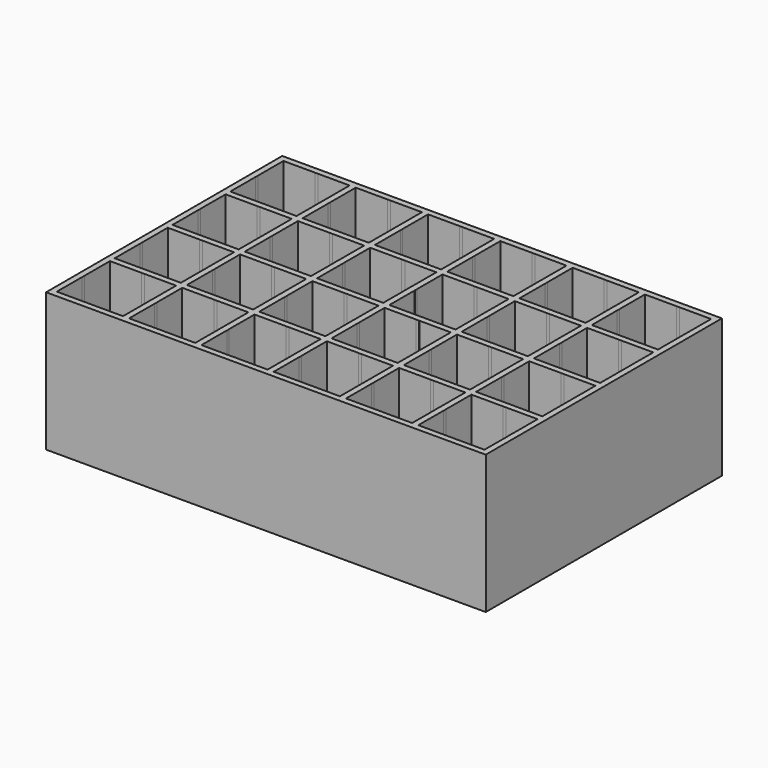
from build123d import *

# Parameters (mm, degrees)
F0_W     = 143.962332
F0_H     = 96
F1_DEPTH = 45
F2_W     = 145.962332
F2_H     = 98
F3_DEPTH = 1
F4_W     = 145.962332
F4_H     = 98
F4_W_2   = 143.962332
F4_H_2   = 96
F5_DEPTH = 45


with BuildPart() as f1:
    # F0 (on Top) → F1 (new body)
    with BuildSketch(Plane.XY):
        with Locations((49.018834, 47.037668)):
            Rectangle(F0_W, F0_H)
        Polygon((-21.98031, 11.537668), (-21.962332, 22.037668), (-11.462332, 22.01969), (-11.462332, 22), (-10.462332, 22), (-10.462332, 22.017978), (0.037668, 22), (0.019755, 11.537668), (6.4e-05, 11.537668), (6.4e-05, 10.537668), (0.018043, 10.537668), (0, 0), (-10.462332, 0.017914), (-10.462332, 0.039316), (-11.462332, 0.039316), (-11.462332, 0.019626), (-22, 0.037668), (-21.982022, 10.537668), (-21.960619, 10.537668), (-21.960619, 11.537668), align=None, mode=Mode.SUBTRACT)
        Polygon((13.537668, 22.017978), (24.037668, 22), (24.019755, 11.537668), (24.000064, 11.537668), (24.000064, 10.537668), (24.018043, 10.537668), (24, 0), (13.537668, 0.017914), (13.537668, 0.039316), (12.537668, 0.039316), (12.537668, 0.019626), (2, 0.037668), (2.017978, 10.537668), (2.039381, 10.537668), (2.039381, 11.537668), (2.01969, 11.537668), (2.037668, 22.037668), (12.537668, 22.01969), (12.537668, 22), (13.537668, 22), align=None, mode=Mode.SUBTRACT)
        Polygon((37.537668, 22.017978), (48.037668, 22), (48.019755, 11.537668), (48.000064, 11.537668), (48.000064, 10.537668), (48.018043, 10.537668), (48, 0), (37.537668, 0.017914), (37.537668, 0.039316), (36.537668, 0.039316), (36.537668, 0.019626), (26, 0.037668), (26.017978, 10.537668), (26.039381, 10.537668), (26.039381, 11.537668), (26.01969, 11.537668), (26.037668, 22.037668), (36.537668, 22.01969), (36.537668, 22), (37.537668, 22), align=None, mode=Mode.SUBTRACT)
        Polygon((-10.462332, 46.017978), (0.037668, 46), (0.019755, 35.537668), (6.4e-05, 35.537668), (6.4e-05, 34.537668), (0.018043, 34.537668), (0, 24), (-10.462332, 24.017914), (-10.462332, 24.039316), (-11.462332, 24.039316), (-11.462332, 24.019626), (-22, 24.037668), (-21.982022, 34.537668), (-21.960619, 34.537668), (-21.960619, 35.537668), (-21.98031, 35.537668), (-21.962332, 46.037668), (-11.462332, 46.01969), (-11.462332, 46), (-10.462332, 46), align=None, mode=Mode.SUBTRACT)
        Polygon((13.537668, 46.017978), (24.037668, 46), (24.019755, 35.537668), (24.000064, 35.537668), (24.000064, 34.537668), (24.018043, 34.537668), (24, 24), (13.537668, 24.017914), (13.537668, 24.039316), (12.537668, 24.039316), (12.537668, 24.019626), (2, 24.037668), (2.017978, 34.537668), (2.039381, 34.537668), (2.039381, 35.537668), (2.01969, 35.537668), (2.037668, 46.037668), (12.537668, 46.01969), (12.537668, 46), (13.537668, 46), align=None, mode=Mode.SUBTRACT)
        Polygon((37.537668, 46.017978), (48.037668, 46), (48.019755, 35.537668), (48.000064, 35.537668), (48.000064, 34.537668), (48.018043, 34.537668), (48, 24), (37.537668, 24.017914), (37.537668, 24.039316), (36.537668, 24.039316), (36.537668, 24.019626), (26, 24.037668), (26.017978, 34.537668), (26.039381, 34.537668), (26.039381, 35.537668), (26.01969, 35.537668), (26.037668, 46.037668), (36.537668, 46.01969), (36.537668, 46), (37.537668, 46), align=None, mode=Mode.SUBTRACT)
        Polygon((61.537668, 22.017978), (72.037668, 22), (72.019755, 11.537668), (72.000064, 11.537668), (72.000064, 10.537668), (72.018043, 10.537668), (72, 0), (61.537668, 0.017914), (61.537668, 0.039316), (60.537668, 0.039316), (60.537668, 0.019626), (50, 0.037668), (50.017978, 10.537668), (50.039381, 10.537668), (50.039381, 11.537668), (50.01969, 11.537668), (50.037668, 22.037668), (60.537668, 22.01969), (60.537668, 22), (61.537668, 22), align=None, mode=Mode.SUBTRACT)
        Polygon((85.537668, 22.017978), (96.037668, 22), (96.019755, 11.537668), (96.000064, 11.537668), (96.000064, 10.537668), (96.018043, 10.537668), (96, 0), (85.537668, 0.017914), (85.537668, 0.039316), (84.537668, 0.039316), (84.537668, 0.019626), (74, 0.037668), (74.017978, 10.537668), (74.039381, 10.537668), (74.039381, 11.537668), (74.01969, 11.537668), (74.037668, 22.037668), (84.537668, 22.01969), (84.537668, 22), (85.537668, 22), align=None, mode=Mode.SUBTRACT)
        Polygon((109.537668, 22.017978), (120.037668, 22), (120.019755, 11.537668), (120.000064, 11.537668), (120.000064, 10.537668), (120.018043, 10.537668), (120, 0), (109.537668, 0.017914), (109.537668, 0.039316), (108.537668, 0.039316), (108.537668, 0.019626), (98, 0.037668), (98.017978, 10.537668), (98.039381, 10.537668), (98.039381, 11.537668), (98.01969, 11.537668), (98.037668, 22.037668), (108.537668, 22.01969), (108.537668, 22), (109.537668, 22), align=None, mode=Mode.SUBTRACT)
        Polygon((61.537668, 46.017978), (72.037668, 46), (72.019755, 35.537668), (72.000064, 35.537668), (72.000064, 34.537668), (72.018043, 34.537668), (72, 24), (61.537668, 24.017914), (61.537668, 24.039316), (60.537668, 24.039316), (60.537668, 24.019626), (50, 24.037668), (50.017978, 34.537668), (50.039381, 34.537668), (50.039381, 35.537668), (50.01969, 35.537668), (50.037668, 46.037668), (60.537668, 46.01969), (60.537668, 46), (61.537668, 46), align=None, mode=Mode.SUBTRACT)
        Polygon((85.537668, 46.017978), (96.037668, 46), (96.019755, 35.537668), (96.000064, 35.537668), (96.000064, 34.537668), (96.018043, 34.537668), (96, 24), (85.537668, 24.017914), (85.537668, 24.039316), (84.537668, 24.039316), (84.537668, 24.019626), (74, 24.037668), (74.017978, 34.537668), (74.039381, 34.537668), (74.039381, 35.537668), (74.01969, 35.537668), (74.037668, 46.037668), (84.537668, 46.01969), (84.537668, 46), (85.537668, 46), align=None, mode=Mode.SUBTRACT)
        Polygon((109.537668, 46.017978), (120.037668, 46), (120.019755, 35.537668), (120.000064, 35.537668), (120.000064, 34.537668), (120.018043, 34.537668), (120, 24), (109.537668, 24.017914), (109.537668, 24.039316), (108.537668, 24.039316), (108.537668, 24.019626), (98, 24.037668), (98.017978, 34.537668), (98.039381, 34.537668), (98.039381, 35.537668), (98.01969, 35.537668), (98.037668, 46.037668), (108.537668, 46.01969), (108.537668, 46), (109.537668, 46), align=None, mode=Mode.SUBTRACT)
        Polygon((-10.462332, 70.017978), (0.037668, 70), (0.019755, 59.537668), (6.4e-05, 59.537668), (6.4e-05, 58.537668), (0.018043, 58.537668), (0, 48), (-10.462332, 48.017914), (-10.462332, 48.039316), (-11.462332, 48.039316), (-11.462332, 48.019626), (-22, 48.037668), (-21.982022, 58.537668), (-21.960619, 58.537668), (-21.960619, 59.537668), (-21.98031, 59.537668), (-21.962332, 70.037668), (-11.462332, 70.01969), (-11.462332, 70), (-10.462332, 70), align=None, mode=Mode.SUBTRACT)
        Polygon((13.537668, 70.017978), (24.037668, 70), (24.019755, 59.537668), (24.000064, 59.537668), (24.000064, 58.537668), (24.018043, 58.537668), (24, 48), (13.537668, 48.017914), (13.537668, 48.039316), (12.537668, 48.039316), (12.537668, 48.019626), (2, 48.037668), (2.017978, 58.537668), (2.039381, 58.537668), (2.039381, 59.537668), (2.01969, 59.537668), (2.037668, 70.037668), (12.537668, 70.01969), (12.537668, 70), (13.537668, 70), align=None, mode=Mode.SUBTRACT)
        Polygon((37.537668, 70.017978), (48.037668, 70), (48.019755, 59.537668), (48.000064, 59.537668), (48.000064, 58.537668), (48.018043, 58.537668), (48, 48), (37.537668, 48.017914), (37.537668, 48.039316), (36.537668, 48.039316), (36.537668, 48.019626), (26, 48.037668), (26.017978, 58.537668), (26.039381, 58.537668), (26.039381, 59.537668), (26.01969, 59.537668), (26.037668, 70.037668), (36.537668, 70.01969), (36.537668, 70), (37.537668, 70), align=None, mode=Mode.SUBTRACT)
        Polygon((-10.462332, 94.017978), (0.037668, 94), (0.019755, 83.537668), (6.4e-05, 83.537668), (6.4e-05, 82.537668), (0.018043, 82.537668), (0, 72), (-10.462332, 72.017914), (-10.462332, 72.039316), (-11.462332, 72.039316), (-11.462332, 72.019626), (-22, 72.037668), (-21.982022, 82.537668), (-21.960619, 82.537668), (-21.960619, 83.537668), (-21.98031, 83.537668), (-21.962332, 94.037668), (-11.462332, 94.01969), (-11.462332, 94), (-10.462332, 94), align=None, mode=Mode.SUBTRACT)
        Polygon((13.537668, 94.017978), (24.037668, 94), (24.019755, 83.537668), (24.000064, 83.537668), (24.000064, 82.537668), (24.018043, 82.537668), (24, 72), (13.537668, 72.017914), (13.537668, 72.039316), (12.537668, 72.039316), (12.537668, 72.019626), (2, 72.037668), (2.017978, 82.537668), (2.039381, 82.537668), (2.039381, 83.537668), (2.01969, 83.537668), (2.037668, 94.037668), (12.537668, 94.01969), (12.537668, 94), (13.537668, 94), align=None, mode=Mode.SUBTRACT)
        Polygon((37.537668, 94.017978), (48.037668, 94), (48.019755, 83.537668), (48.000064, 83.537668), (48.000064, 82.537668), (48.018043, 82.537668), (48, 72), (37.537668, 72.017914), (37.537668, 72.039316), (36.537668, 72.039316), (36.537668, 72.019626), (26, 72.037668), (26.017978, 82.537668), (26.039381, 82.537668), (26.039381, 83.537668), (26.01969, 83.537668), (26.037668, 94.037668), (36.537668, 94.01969), (36.537668, 94), (37.537668, 94), align=None, mode=Mode.SUBTRACT)
        Polygon((61.537668, 70.017978), (72.037668, 70), (72.019755, 59.537668), (72.000064, 59.537668), (72.000064, 58.537668), (72.018043, 58.537668), (72, 48), (61.537668, 48.017914), (61.537668, 48.039316), (60.537668, 48.039316), (60.537668, 48.019626), (50, 48.037668), (50.017978, 58.537668), (50.039381, 58.537668), (50.039381, 59.537668), (50.01969, 59.537668), (50.037668, 70.037668), (60.537668, 70.01969), (60.537668, 70), (61.537668, 70), align=None, mode=Mode.SUBTRACT)
        Polygon((85.537668, 70.017978), (96.037668, 70), (96.019755, 59.537668), (96.000064, 59.537668), (96.000064, 58.537668), (96.018043, 58.537668), (96, 48), (85.537668, 48.017914), (85.537668, 48.039316), (84.537668, 48.039316), (84.537668, 48.019626), (74, 48.037668), (74.017978, 58.537668), (74.039381, 58.537668), (74.039381, 59.537668), (74.01969, 59.537668), (74.037668, 70.037668), (84.537668, 70.01969), (84.537668, 70), (85.537668, 70), align=None, mode=Mode.SUBTRACT)
        Polygon((109.537668, 70.017978), (120.037668, 70), (120.019755, 59.537668), (120.000064, 59.537668), (120.000064, 58.537668), (120.018043, 58.537668), (120, 48), (109.537668, 48.017914), (109.537668, 48.039316), (108.537668, 48.039316), (108.537668, 48.019626), (98, 48.037668), (98.017978, 58.537668), (98.039381, 58.537668), (98.039381, 59.537668), (98.01969, 59.537668), (98.037668, 70.037668), (108.537668, 70.01969), (108.537668, 70), (109.537668, 70), align=None, mode=Mode.SUBTRACT)
        Polygon((61.537668, 94.017978), (72.037668, 94), (72.019755, 83.537668), (72.000064, 83.537668), (72.000064, 82.537668), (72.018043, 82.537668), (72, 72), (61.537668, 72.017914), (61.537668, 72.039316), (60.537668, 72.039316), (60.537668, 72.019626), (50, 72.037668), (50.017978, 82.537668), (50.039381, 82.537668), (50.039381, 83.537668), (50.01969, 83.537668), (50.037668, 94.037668), (60.537668, 94.01969), (60.537668, 94), (61.537668, 94), align=None, mode=Mode.SUBTRACT)
        Polygon((85.537668, 94.017978), (96.037668, 94), (96.019755, 83.537668), (96.000064, 83.537668), (96.000064, 82.537668), (96.018043, 82.537668), (96, 72), (85.537668, 72.017914), (85.537668, 72.039316), (84.537668, 72.039316), (84.537668, 72.019626), (74, 72.037668), (74.017978, 82.537668), (74.039381, 82.537668), (74.039381, 83.537668), (74.01969, 83.537668), (74.037668, 94.037668), (84.537668, 94.01969), (84.537668, 94), (85.537668, 94), align=None, mode=Mode.SUBTRACT)
        Polygon((109.537668, 94.017978), (120.037668, 94), (120.019755, 83.537668), (120.000064, 83.537668), (120.000064, 82.537668), (120.018043, 82.537668), (120, 72), (109.537668, 72.017914), (109.537668, 72.039316), (108.537668, 72.039316), (108.537668, 72.019626), (98, 72.037668), (98.017978, 82.537668), (98.039381, 82.537668), (98.039381, 83.537668), (98.01969, 83.537668), (98.037668, 94.037668), (108.537668, 94.01969), (108.537668, 94), (109.537668, 94), align=None, mode=Mode.SUBTRACT)
    extrude(amount=F1_DEPTH)

    # F2 (on Top) → F3 (join)
    with BuildSketch(Plane.XY):
        with Locations((49.018834, 47.037668)):
            Rectangle(F2_W, F2_H)
    extrude(amount=-F3_DEPTH)

    # F4 (on face) → F5 (join, through all)
    with BuildSketch(Plane.XY):
        with Locations((49.018834, 47.037668)):
            Rectangle(F4_W, F4_H)
        with Locations((49.018834, 47.037668)):
            Rectangle(F4_W_2, F4_H_2, mode=Mode.SUBTRACT)
    extrude(amount=F5_DEPTH)


solid = f1.part
